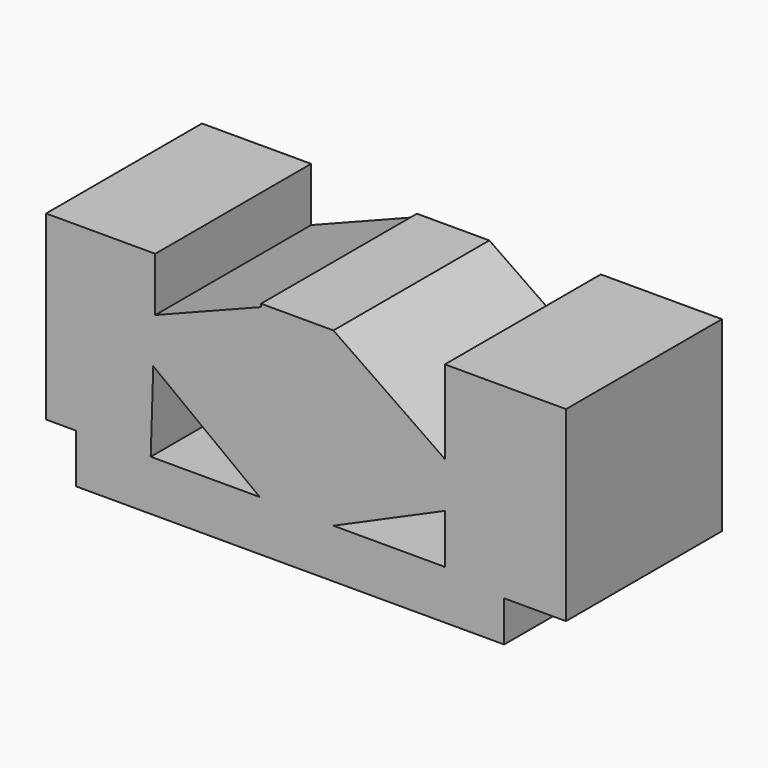
from build123d import *

# Parameters (mm, degrees)
F0_W     = 25.893162936
F0_H     = 3.6587580107
F1_DEPTH = 85.09


with BuildPart() as f1:
    # F0 (on Front) → F1 (new body)
    with BuildSketch(Plane.XZ):
        Polygon((-32.1795336076, -5.8154966682), (-47.1369847655, -5.8154966682), (-79.777530315, -5.8154966682), (-79.7954164445, -6.3865459524), (-112.4538481236, -6.3865459524), (-112.4538481236, -27.8134085238), (74.5581910014, -27.8134085238), (74.5581910014, -10.0453039631), (48.6650280654, -10.0453039631), (48.6650280654, -6.3865459524), (0, -6.3865459524), (0, 68.6902999878), (-28.2512512058, 68.6902999878), (-31.6169522703, 67.3730941035), (-31.6169522703, -5.8154966682), align=None)
        Polygon((-79.7954164445, -6.3865459524), (-79.777530315, -5.8154966682), (-112.4538481236, -5.8154966682), (-112.4538481236, -6.3865459524), align=None)
        Polygon((-112.4538481236, -5.8154966682), (-79.777530315, -5.8154966682), (-78.6756772828, 29.3632927816), (-77.8073309867, 49.2959572824), (-77.8073309867, 72.846353054), (-125.4699677229, 72.846353054), (-125.4699677229, -6.3865459524), (-112.4538481236, -6.3865459524), align=None)
        Polygon((-78.6756772828, 29.3632927816), (-32.1795336076, -5.8154966682), (-31.6169522703, -5.8154966682), (-31.6169522703, 67.3730941035), (-77.8073309867, 49.2959572824), align=None)
        Polygon((-31.6169522703, 68.6902999878), (-31.6169522703, 67.3730941035), (-28.2512512058, 68.6902999878), align=None)
        Polygon((48.6650280654, 35.0978039205), (0, 68.6902999878), (0, -6.3865459524), (48.6650280654, 15.1462340727), align=None)
        with Locations((61.6116095334, -8.2159249578)):
            Rectangle(F0_W, F0_H)
        Polygon((74.5581910014, -6.3865459524), (74.5581910014, -10.0453039631), (101.5730202198, -10.0453039631), (101.5730202198, 71.4636668563), (48.6650280654, 71.4636668563), (48.6650280654, 35.0978039205), (48.6650280654, 15.1462340727), (48.6650280654, 0), (48.6650280654, -6.3865459524), align=None)
    extrude(amount=F1_DEPTH)


solid = f1.part
